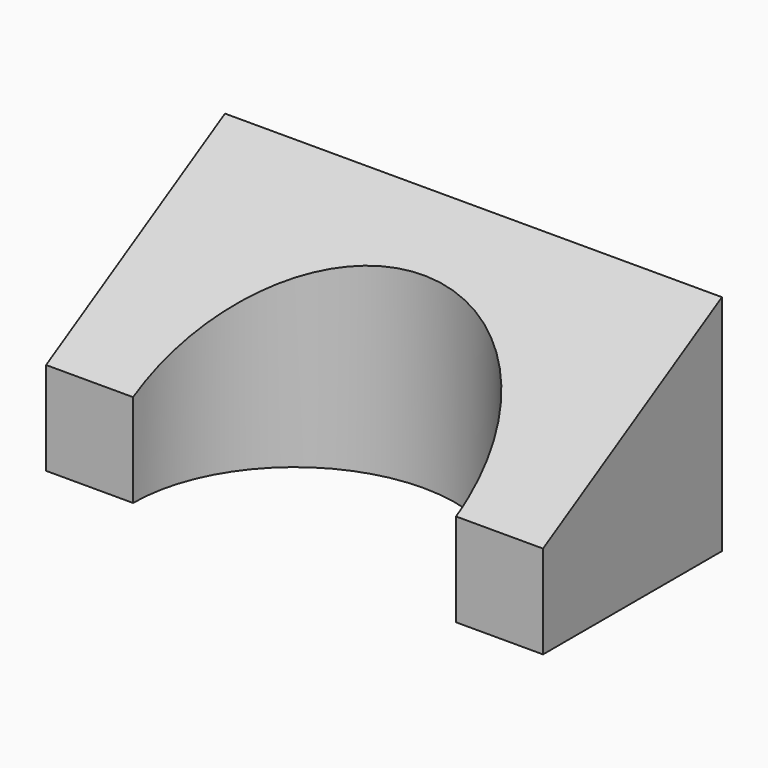
from build123d import *

# Parameters (mm, degrees)
F1_DEPTH = 127
F3_DEPTH = 127


with BuildPart() as f1:
    # F0 (on Right) → F1 (new body)
    with BuildSketch(Plane.YZ):
        Polygon((41.165731, 37.82339), (-15.984269, 4.48589), (-15.984269, -19.32661), (41.165731, -19.32661), align=None)
    extrude(amount=F1_DEPTH)

    # F2 (on face) → F3 (cut)
    with BuildSketch(Plane(origin=(0, 0, -19.32661), x_dir=(1, 0, 0), z_dir=(0, 0, -1))):
        with BuildLine():
            Line((104.775, 15.984269), (22.225, 15.984269))
            ThreePointArc((22.225, 15.984269), (63.5, -25.290731), (104.775, 15.984269))
        make_face()
    extrude(amount=-F3_DEPTH, mode=Mode.SUBTRACT)


solid = f1.part
